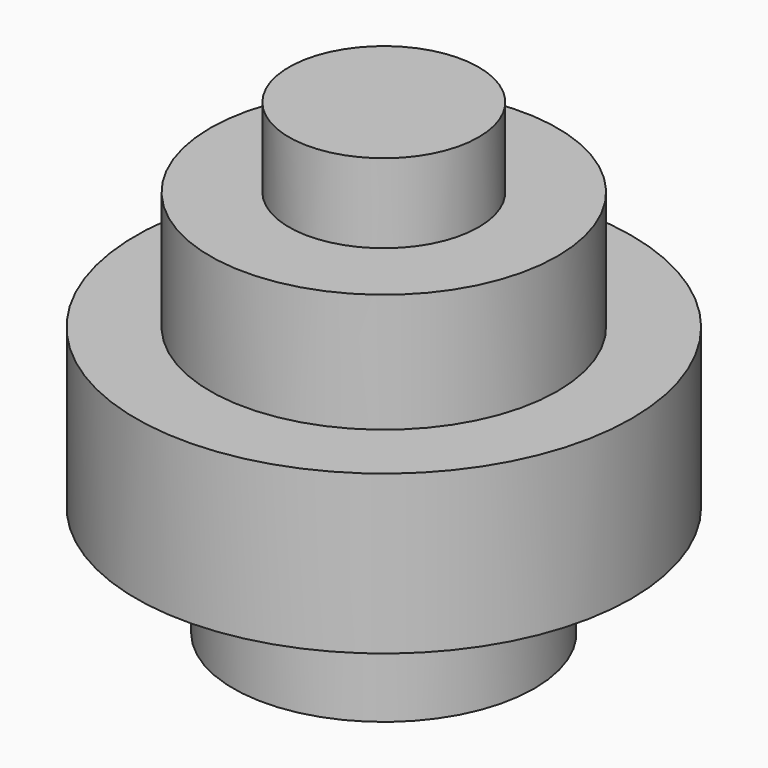
from build123d import *

# Parameters (mm, degrees)
F0_R     = 24.13
F1_DEPTH = 17.78
F2_R     = 39.733027
F2_R_2   = 24.13
F3_DEPTH = 25.4
F4_R     = 27.837104
F5_DEPTH = 19.05
F6_R     = 15.212569
F7_DEPTH = 12.7


with BuildPart() as f1:
    # F0 (on Top) → F1 (new body)
    with BuildSketch(Plane.XY):
        with Locations((-89.226432, 10.949461)):
            Circle(F0_R)
    extrude(amount=F1_DEPTH)

    # F2 (on face) → F3 (join)
    with BuildSketch(Plane.XY.offset(17.78)):
        with Locations((-89.226432, 10.949461)):
            Circle(F2_R)
        with Locations((-89.226432, 10.949461)):
            Circle(F2_R_2, mode=Mode.SUBTRACT)
        with Locations((-89.226432, 10.949461)):
            Circle(F2_R_2)
    extrude(amount=F3_DEPTH)

    # F4 (on face) → F5 (join)
    with BuildSketch(Plane.XY.offset(43.18)):
        with Locations((-89.226432, 10.949461)):
            Circle(F4_R)
    extrude(amount=F5_DEPTH)

    # F6 (on face) → F7 (join)
    with BuildSketch(Plane.XY.offset(62.23)):
        with Locations((-89.226432, 10.949461)):
            Circle(F6_R)
    extrude(amount=F7_DEPTH)


solid = f1.part
